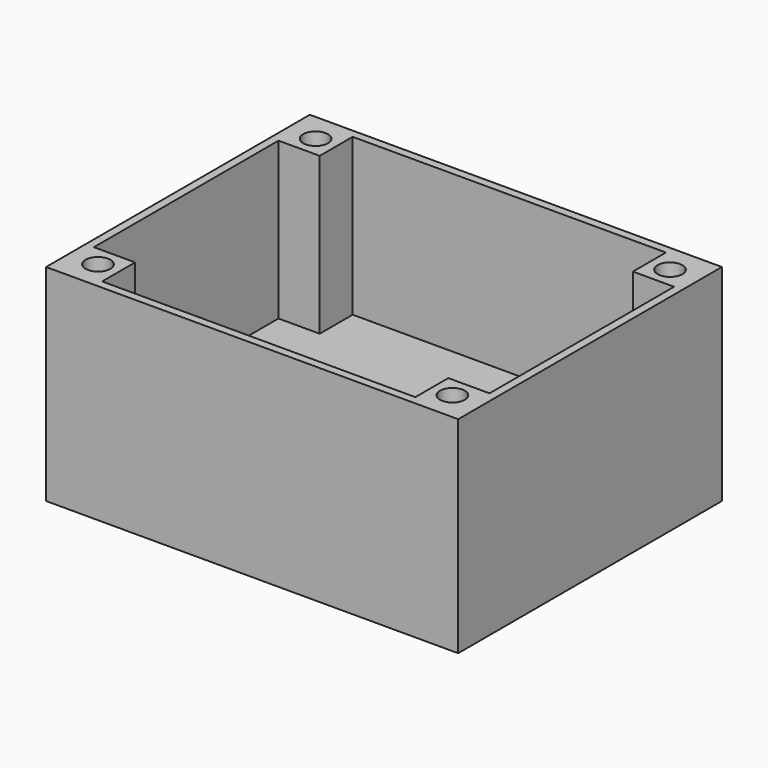
from build123d import *

# Parameters (mm, degrees)
F0_W      = 50
F0_H      = 40
F1_DEPTH  = 25
F2_W      = 48
F2_H      = 38
F3_DEPTH  = 19
F4_W      = 5
F4_H      = 5
F4_W_2    = 4.9955489208
F5_DEPTH  = 19
F6_R      = 1.5
F7_DEPTH  = 10
F8_R      = 2.5
F8_R_2    = 1.5
F9_DEPTH  = 5
F10_DEPTH = 10
F11_R     = 5
F12_DEPTH = 2
F13_R     = 1.5
F14_DEPTH = 5


with BuildPart() as f1:
    # F0 (on Top) → F1 (new body)
    with BuildSketch(Plane.XY):
        with Locations((-24.0044510792, 35.204609856)):
            Rectangle(F0_W, F0_H)
    extrude(amount=F1_DEPTH)

    # F2 (on face) → F3 (cut)
    with BuildSketch(Plane.XY.offset(25)):
        with Locations((-24.0044510792, 35.204609856)):
            Rectangle(F2_W, F2_H)
    extrude(amount=-F3_DEPTH, mode=Mode.SUBTRACT)

    # F4 (on face) → F5 (join)
    with BuildSketch(Plane.XY.offset(6)):
        with Locations((-45.5044510792, 51.704609856)):
            Rectangle(F4_W, F4_H)
        with Locations((-45.5044510792, 18.704609856)):
            Rectangle(F4_W, F4_H)
        with Locations((-2.5022255396, 51.704609856)):
            Rectangle(F4_W_2, F4_H)
        with Locations((-2.5044510792, 18.704609856)):
            Rectangle(F4_W, F4_H)
    extrude(amount=F5_DEPTH)

    # F6 (on face) → F7 (cut)
    with BuildSketch(Plane.XY.offset(25)):
        with Locations((-45.5044510792, 51.704609856)):
            Circle(F6_R)
        with Locations((-45.5044510792, 18.704609856)):
            Circle(F6_R)
        with Locations((-2.5044510792, 18.704609856)):
            Circle(F6_R)
        with Locations((-2.5022255396, 51.704609856)):
            Circle(F6_R)
    extrude(amount=-F7_DEPTH, mode=Mode.SUBTRACT)

    # F8 (on face) → F9 (join)
    with BuildSketch(Plane.XY.offset(6)):
        with Locations((-28.0044510792, 31.204609856)):
            Circle(F8_R)
        with Locations((-28.0044510792, 31.204609856)):
            Circle(F8_R_2, mode=Mode.SUBTRACT)
        with Locations((-13.0044510792, 41.204609856)):
            Circle(F8_R)
        with Locations((-13.0044510792, 41.204609856)):
            Circle(F8_R_2, mode=Mode.SUBTRACT)
    extrude(amount=F9_DEPTH)

    # F10 (cut): faces of the model
    f10_faces = [f1.faces().sort_by_distance(p)[0] for p in [
        (-28.0044510792, 31.204609856, 6),
        (-13.0044510792, 41.204609856, 6),
    ]]
    extrude(f10_faces, amount=-F10_DEPTH, mode=Mode.SUBTRACT)

    # F11 (on face) → F12 (join)
    with BuildSketch(Plane.XY.offset(6)):
        with Locations((-28.0044510792, 31.204609856)):
            Circle(F11_R)
        with Locations((-13.0044510792, 41.204609856)):
            Circle(F11_R)
    extrude(amount=F12_DEPTH)

    # F13 (on face) → F14 (cut)
    with BuildSketch(Plane(origin=(0, 0, 0), x_dir=(1, 0, 0), z_dir=(0, 0, -1))):
        Polygon((-25.0050230309, -31.2631878667), (-26.4540070097, -28.6363179747), (-29.453435058, -28.5777399641), (-31.0038791275, -31.1460318454), (-29.5548951487, -33.7729017373), (-26.5554671004, -33.8314797479), align=None)
        with Locations((-28.0044510792, -31.204609856)):
            Circle(F13_R, mode=Mode.SUBTRACT)
        Polygon((-10.2501344474, -42.3936178003), (-10.5975816782, -39.4138056549), (-13.3518983101, -38.2247977106), (-15.758767711, -40.0156019117), (-15.4113204802, -42.9954140571), (-12.6570038483, -44.1844220014), align=None)
        with Locations((-13.0044510792, -41.204609856)):
            Circle(F13_R, mode=Mode.SUBTRACT)
    extrude(amount=F14_DEPTH, mode=Mode.SUBTRACT)


solid = f1.part
